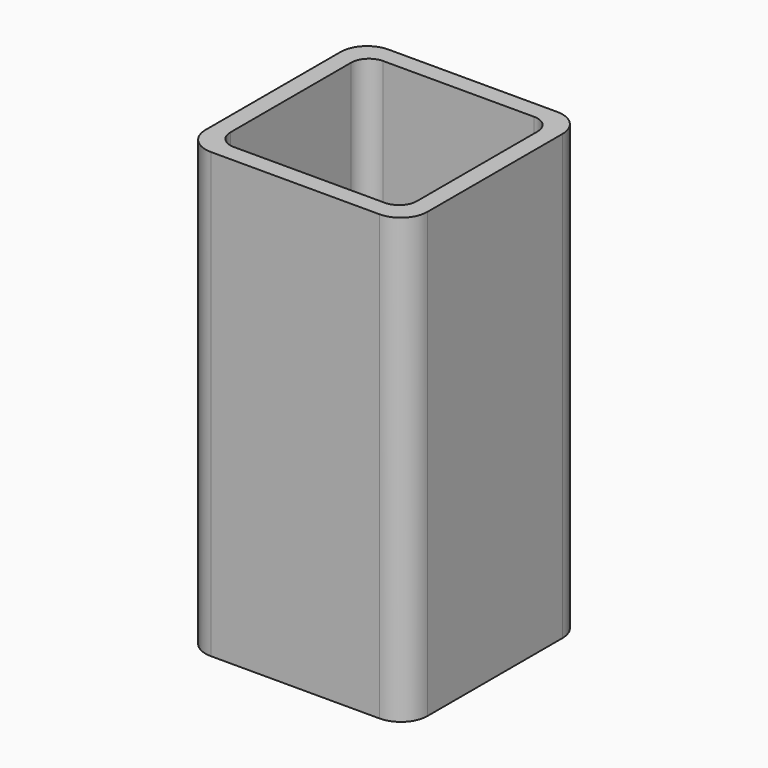
from build123d import *

# Parameters (mm, degrees)
EXTRUDE_DEPTH = 50


with BuildPart() as part:
    # Sketch → Extrude (new body)
    with BuildSketch(Plane.XY):
        with BuildLine():
            Line((-9.5, 12.5), (9.5, 12.5))
            ThreePointArc((12.5, 9.5), (11.62132, 11.62132), (9.5, 12.5))
            Line((12.5, 9.5), (12.5, -9.5))
            ThreePointArc((9.5, -12.5), (11.62132, -11.62132), (12.5, -9.5))
            Line((9.5, -12.5), (-9.5, -12.5))
            ThreePointArc((-12.5, -9.5), (-11.62132, -11.62132), (-9.5, -12.5))
            Line((-12.5, -9.5), (-12.5, 9.5))
            ThreePointArc((-9.5, 12.5), (-11.62132, 11.62132), (-12.5, 9.5))
        make_face()
        with BuildLine():
            Line((-8.5, 10.5), (8.5, 10.5))
            ThreePointArc((10.5, 8.5), (9.914214, 9.914214), (8.5, 10.5))
            Line((10.5, 8.5), (10.5, -8.5))
            ThreePointArc((8.5, -10.5), (9.914214, -9.914214), (10.5, -8.5))
            Line((8.5, -10.5), (-8.5, -10.5))
            ThreePointArc((-10.5, -8.5), (-9.914214, -9.914214), (-8.5, -10.5))
            Line((-10.5, -8.5), (-10.5, 8.5))
            ThreePointArc((-8.5, 10.5), (-9.914214, 9.914214), (-10.5, 8.5))
        make_face(mode=Mode.SUBTRACT)
    extrude(amount=EXTRUDE_DEPTH)


solid = part.part
